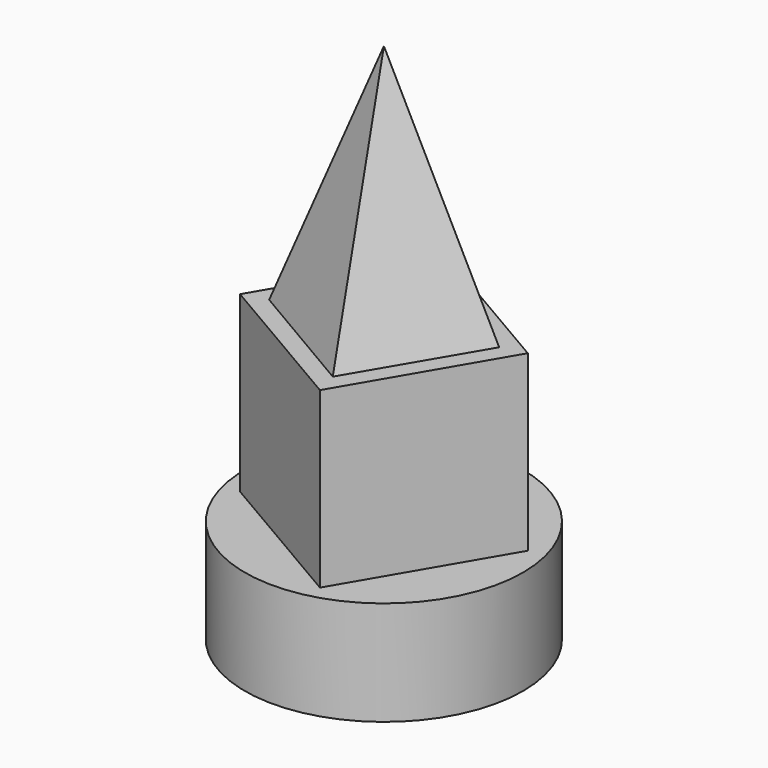
from build123d import *

# Parameters (mm, degrees)
F0_R     = 40
F1_DEPTH = 30
F3_DEPTH = 50


with BuildPart() as f1:
    # F0 (on Top) → F1 (new body)
    with BuildSketch(Plane.XY):
        Circle(F0_R)
    extrude(amount=F1_DEPTH)

    # F2 (on face) → F3 (join)
    with BuildSketch(Plane.XY.offset(30)):
        Polygon((34.199837, 8.964997), (-8.964997, 34.199837), (-34.199837, -8.964997), (8.964997, -34.199837), align=None)
    extrude(amount=F3_DEPTH)

    # F4 (on face) → F6 section 0
    with BuildSketch(Plane.XY.offset(80), mode=Mode.PRIVATE) as f6_s0:
        Polygon((-7.121267, 27.464645), (-27.375315, -7.028449), (7.117778, -27.282497), (27.371827, 7.210596), align=None)
    loft([f6_s0.sketch, Vertex(0, 0, 150.282912)])


solid = f1.part
